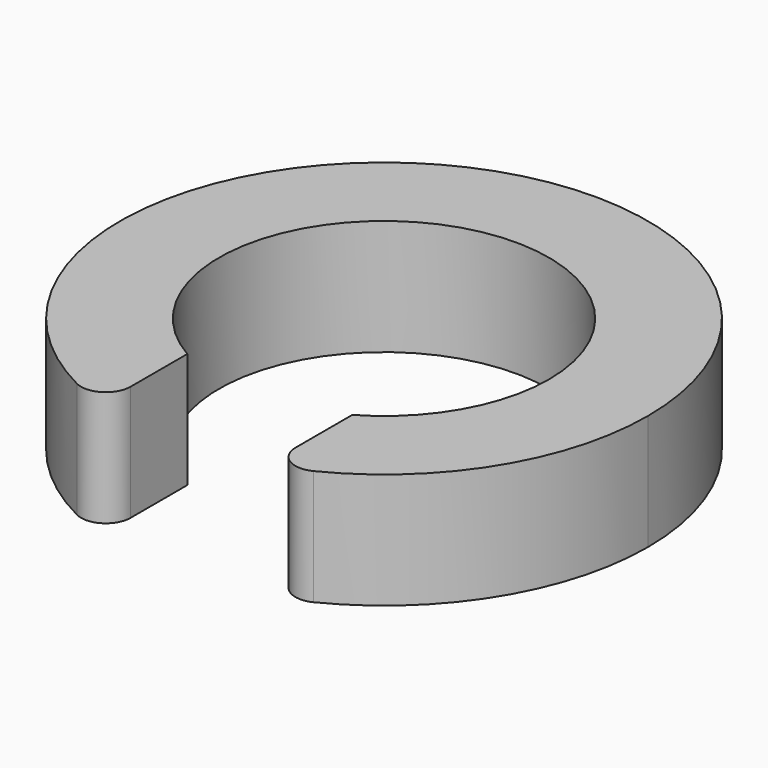
from build123d import *

# Parameters (mm, degrees)
F1_DEPTH = 7
F2_R     = 1.5


with BuildPart() as f1:
    # F0 (on Top) → F1 (new body)
    with BuildSketch(Plane.XY):
        with BuildLine():
            ThreePointArc((-5, -8.660254), (-5, 8.660254), (10, 0))
            ThreePointArc((10, 0), (8.660254, -5), (5, -8.660254))
            Line((5, -8.660254), (5, -15.198684))
            ThreePointArc((5, -15.198684), (12.961481, -9.380832), (16, 0))
            ThreePointArc((16, 0), (-9.380832, 12.961481), (-5, -15.198684))
            Line((-5, -15.198684), (-5, -8.660254))
        make_face()
    extrude(amount=F1_DEPTH)

    # F2
    f2_edges = [f1.edges().sort_by_distance(p)[0] for p in [
        (-5, -15.198684, 3.5),
        (5, -15.198684, 3.5),
    ]]
    fillet(f2_edges, radius=F2_R)


solid = f1.part
